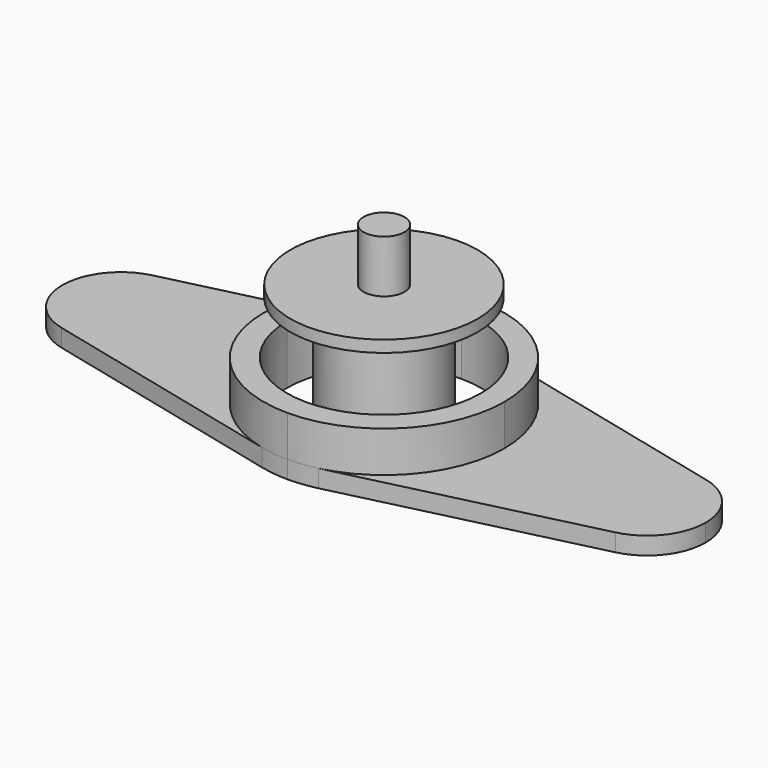
from build123d import *

# Parameters (mm, degrees)
PAD_DEPTH               = 3
PAD001_DEPTH            = 10
PAD_MIRRORED_2_DEPTH    = 3
PAD001_MIRRORED_2_DEPTH = 10


with BuildPart() as body:
    # Sketch → Pad (new body)
    with BuildSketch(Plane.XY):
        with BuildLine():
            Line((0, 16.6), (0, 20.6))
            ThreePointArc((4.852487, 20.020324), (2.443494, 20.454568), (0, 20.6))
            Line((4.852487, 20.020324), (47.355549, 9.71861))
            ThreePointArc((55, 0), (52.859882, 6.182415), (47.355549, 9.71861))
            Line((16.6, 0), (55, 0))
            ThreePointArc((16.6, 0), (11.737973, 11.737973), (0, 16.6))
        make_face()
    pad = extrude(amount=PAD_DEPTH)

    # Sketch001 → Pad001 (join)
    with BuildSketch(Plane.XY):
        with BuildLine():
            ThreePointArc((16.6, 0), (11.737973, 11.737973), (0, 16.6))
            Line((0, 16.6), (0, 20.6))
            ThreePointArc((20.6, 0), (14.5664, 14.5664), (0, 20.6))
            Line((16.6, 0), (20.6, 0))
        make_face()
    pad001 = extrude(amount=PAD001_DEPTH)

    # Sketch Mirrored 2 → Pad Mirrored 2 (add)
    with BuildSketch(Plane(origin=(0, 0, 0), x_dir=(-1, 0, 0), z_dir=(0, 0, -1))):
        with BuildLine():
            Line((0, 16.6), (0, 20.6))
            ThreePointArc((4.852487, 20.020324), (2.443494, 20.454568), (0, 20.6))
            Line((4.852487, 20.020324), (47.355549, 9.71861))
            ThreePointArc((55, 0), (52.859882, 6.182415), (47.355549, 9.71861))
            Line((16.6, 0), (55, 0))
            ThreePointArc((16.6, 0), (11.737973, 11.737973), (0, 16.6))
        make_face()
    pad_mirrored_2 = extrude(amount=-PAD_MIRRORED_2_DEPTH)

    # Sketch001 Mirrored 2 → Pad001 Mirrored 2 (add)
    with BuildSketch(Plane(origin=(0, 0, 0), x_dir=(-1, 0, 0), z_dir=(0, 0, -1))):
        with BuildLine():
            ThreePointArc((16.6, 0), (11.737973, 11.737973), (0, 16.6))
            Line((0, 16.6), (0, 20.6))
            ThreePointArc((20.6, 0), (14.5664, 14.5664), (0, 20.6))
            Line((16.6, 0), (20.6, 0))
        make_face()
    pad001_mirrored_2 = extrude(amount=-PAD001_MIRRORED_2_DEPTH)

    # Mirrored001: Pad, Pad001, Pad Mirrored 2, Pad001 Mirrored 2 across Sketch H_Axis
    add(pad.mirror(Plane.ZX))
    add(pad001.mirror(Plane.ZX))
    add(pad_mirrored_2.mirror(Plane.ZX))
    add(pad001_mirrored_2.mirror(Plane.ZX))


with BuildPart() as body001:
    # Sketch002 → Revolution (revolve)
    with BuildSketch(Plane.XZ):
        Polygon((0, 30), (3.5, 30), (3.5, 21), (16, 21), (16, 19), (9.5, 19), (9.5, 0), (0, 0), align=None)
    revolve(axis=Axis((0, 0, 0), (0, 0, 1)))


solid = Compound([body.part, body001.part])
